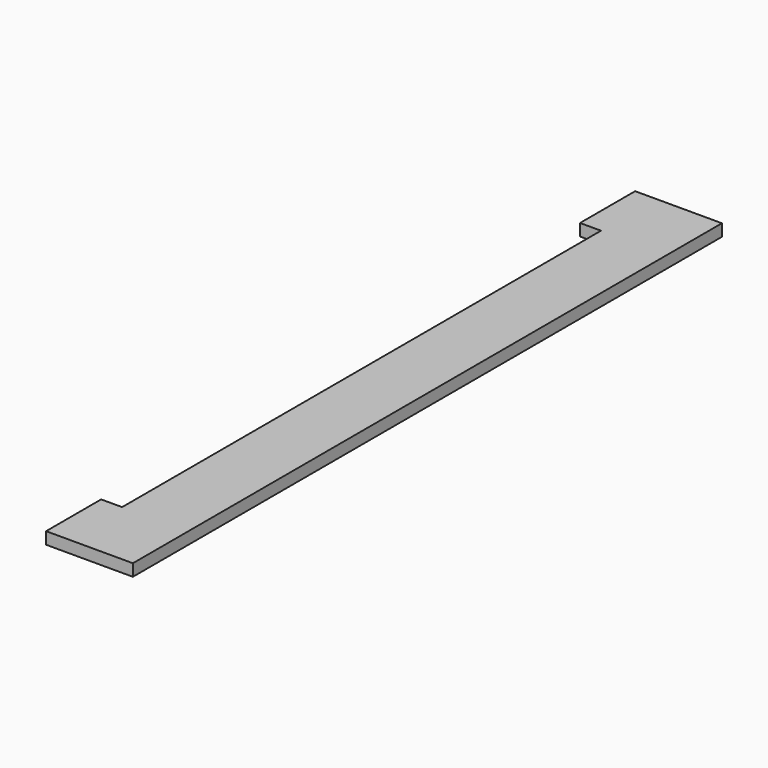
from build123d import *

# Parameters (mm, degrees)
F0_W     = 120
F0_H     = 20
F1_DEPTH = 1200
F2_DEPTH = 15
F3_DEPTH = 15
F4_W     = 115
F4_H     = 20
F5_DEPTH = 25
F6_DEPTH = 25
F7_W     = 1000
F7_H     = 20
F8_DEPTH = 10


with BuildPart() as f1:
    # F0 (on Front) → F1 (new body)
    with BuildSketch(Plane.XZ):
        with Locations((60, 10)):
            Rectangle(F0_W, F0_H)
    extrude(amount=F1_DEPTH)

    # F2 (add): a face of the model
    f2_faces = [f1.faces().sort_by_distance(p)[0] for p in [
        (60, -1200, 10),
    ]]
    extrude(f2_faces, amount=F2_DEPTH)

    # F3 (add): a face of the model
    f3_faces = [f1.faces().sort_by_distance(p)[0] for p in [
        (60, 0, 10),
    ]]
    extrude(f3_faces, amount=F3_DEPTH)

    # F4 (on face) → F5 (join)
    with BuildSketch(Plane(origin=(0, 0, 0), x_dir=(0, -1, 0), z_dir=(-1, 0, 0))):
        with Locations((1157.5, 10)):
            Rectangle(F4_W, F4_H)
    extrude(amount=F5_DEPTH)

    # F4 (on face) → F6 (join)
    with BuildSketch(Plane(origin=(0, 0, 0), x_dir=(0, -1, 0), z_dir=(-1, 0, 0))):
        with Locations((42.5, 10)):
            Rectangle(F4_W, F4_H)
    extrude(amount=F6_DEPTH)

    # F7 (on face) → F8 (cut)
    with BuildSketch(Plane(origin=(0, 0, 0), x_dir=(0, -1, 0), z_dir=(-1, 0, 0))):
        with Locations((600, 10)):
            Rectangle(F7_W, F7_H)
    extrude(amount=-F8_DEPTH, mode=Mode.SUBTRACT)


solid = f1.part
